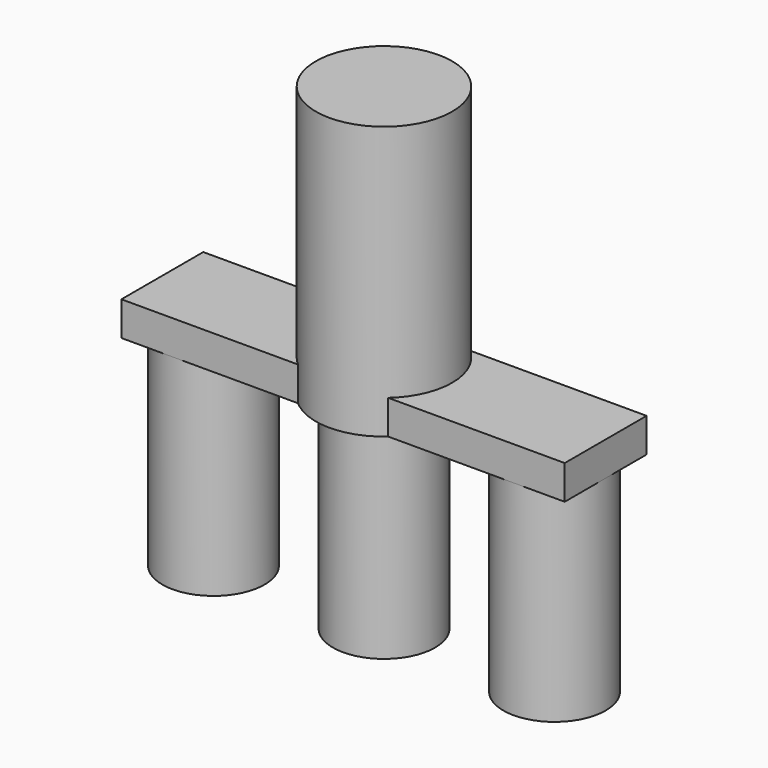
from build123d import *

# Parameters (mm, degrees)
F1_DEPTH = 5
F2_R     = 10
F3_DEPTH = 40
F4_R     = 7.5
F5_DEPTH = 30
F7_DEPTH = 30
F6_R     = 7.5


with BuildPart() as f1:
    # F0 (on Top) → F1 (new body)
    with BuildSketch(Plane.XY):
        with BuildLine():
            ThreePointArc((6.6143782777, 7.5), (9.1143782777, 4.1143782777), (10, 0))
            ThreePointArc((10, 0), (9.1143782777, -4.1143782777), (6.6143782777, -7.5))
            Line((6.6143782777, -7.5), (32.5, -7.5))
            Line((32.5, -7.5), (32.5, 7.5))
            Line((32.5, 7.5), (6.6143782777, 7.5))
        make_face()
    extrude(amount=F1_DEPTH)


with BuildPart() as f1b:
    # F0 (on Top) → F1, piece 2 (new body)
    with BuildSketch(Plane.XY):
        with BuildLine():
            ThreePointArc((-6.6143782777, -7.5), (-10, 0), (-6.6143782777, 7.5))
            Line((-6.6143782777, 7.5), (-32.5, 7.5))
            Line((-32.5, 7.5), (-32.5, -7.5))
            Line((-32.5, -7.5), (-6.6143782777, -7.5))
        make_face()
    extrude(amount=F1_DEPTH)


with BuildPart() as f3:
    # F2 (on Top) → F3 (new body)
    with BuildSketch(Plane.XY):
        Circle(F2_R)
    extrude(amount=F3_DEPTH)

    # F4 (on face) → F5 (join)
    with BuildSketch(Plane(origin=(0, 0, 0), x_dir=(1, 0, 0), z_dir=(0, 0, -1))):
        Circle(F4_R)
    extrude(amount=F5_DEPTH)


with BuildPart() as f7:
    # F6 (on face) → F7 (new body)
    with BuildSketch(Plane(origin=(0, 0, 0), x_dir=(1, 0, 0), z_dir=(0, 0, -1))):
        with BuildLine():
            ThreePointArc((-25, -7.5), (-19.6966991411, -5.3033008589), (-17.5, 0))
            ThreePointArc((-17.5, 0), (-19.6966991411, 5.3033008589), (-25, 7.5))
            ThreePointArc((-25, 7.5), (-30.3033008589, 5.3033008589), (-32.5, 0))
            ThreePointArc((-32.5, 0), (-30.3033008589, -5.3033008589), (-25, -7.5))
        make_face()
    extrude(amount=F7_DEPTH)


with BuildPart() as f7b:
    # F6 (on face) → F7, piece 2 (new body)
    with BuildSketch(Plane(origin=(0, 0, 0), x_dir=(1, 0, 0), z_dir=(0, 0, -1))):
        with Locations((25, 0)):
            Circle(F6_R)
    extrude(amount=F7_DEPTH)


solid = Compound([f1.part, f1b.part, f3.part, f7.part, f7b.part])
